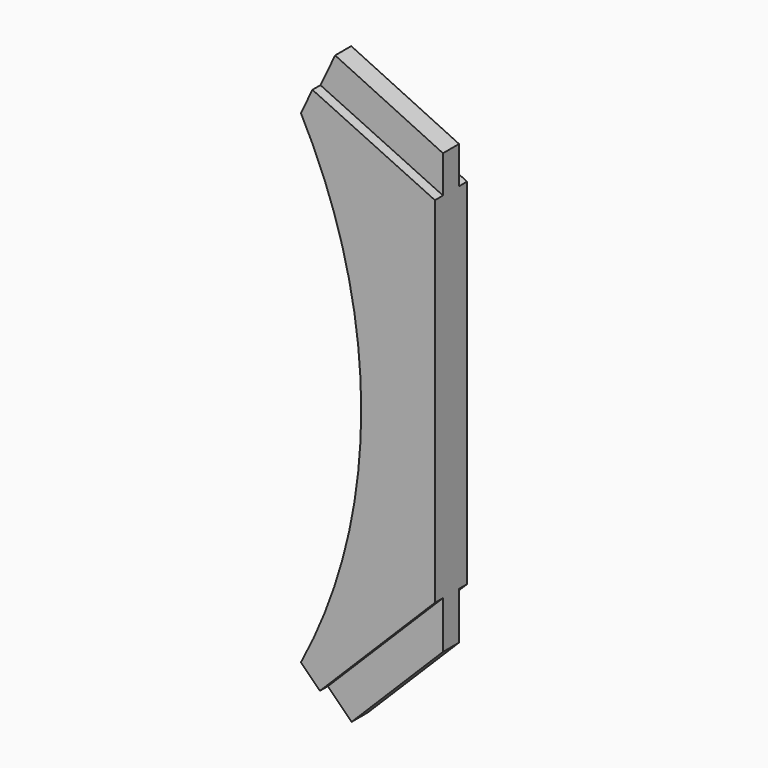
from build123d import *

# Parameters (mm, degrees)
F1_DEPTH = 38.1
F2_DEPTH = 19.05


with BuildPart() as f1:
    # F0 (on Front) → F1 (new body, symmetric)
    with BuildSketch(Plane.XZ):
        Polygon((-110.6208127871, 413.4903560323), (-112.7853297752, 408.9222720518), (127, 295.3036472591), (127, 302.2514283657), align=None)
        Polygon((127, -283.5250073743), (-127, -537.5250073743), (-91.0789755157, -573.4460318585), (127, -355.3670563428), align=None)
        with BuildLine():
            Line((-126.9351360354, 379.0599500378), (-127, 378.9230585098))
            ThreePointArc((-127, 378.9230585098), (-12.7, -79.3009744322), (-127, -537.5250073743))
            Line((-127, -537.5250073743), (127, -283.5250073743))
            Line((127, -283.5250073743), (127, 295.3036472591))
            Line((127, 295.3036472591), (-112.7853297752, 408.9222720518))
            Line((-112.7853297752, 408.9222720518), (-126.9351360354, 379.0599500378))
        make_face()
        Polygon((-107.3472207942, 420.3990766491), (-110.6208127871, 413.4903560323), (127, 302.2514283657), (127, 309.5502853394), align=None)
        Polygon((127, 309.5502853394), (127, 316.2741585044), (-105.1827050376, 424.9671580305), (-107.3472207942, 420.3990766491), align=None)
    extrude(amount=F1_DEPTH, both=True)

    # F0 (on Front) → F2 (join, symmetric)
    with BuildSketch(Plane.XZ):
        Polygon((127, -355.3670563428), (-91.0789755157, -573.4460318585), (-46.1776949104, -618.3473124639), (127, -445.1696175535), align=None)
        Polygon((127, 316.2741585044), (127, 379.6250462127), (-80.1566832786, 477.7830840409), (-105.1827050376, 424.9671580305), align=None)
        Polygon((-107.3472207942, 420.3990766491), (-110.6208127871, 413.4903560323), (127, 302.2514283657), (127, 309.5502853394), align=None)
        Polygon((127, 309.5502853394), (127, 316.2741585044), (-105.1827050376, 424.9671580305), (-107.3472207942, 420.3990766491), align=None)
        Polygon((127, 379.6250462127), (127, 386.8607449079), (-77.3567883787, 483.6920952011), (-80.1566832786, 477.7830840409), align=None)
    extrude(amount=F2_DEPTH, both=True)


solid = f1.part
